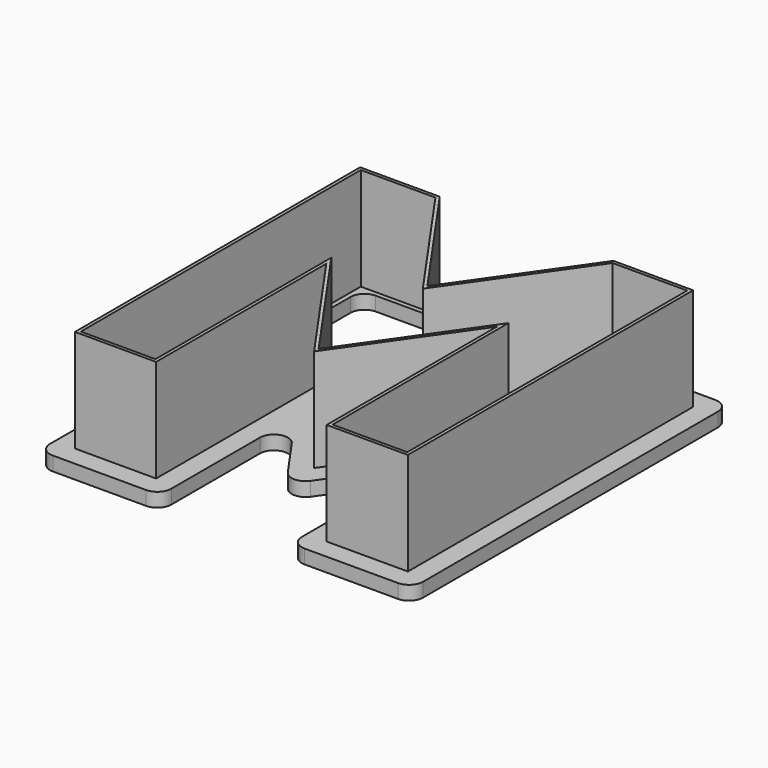
from build123d import *

# Parameters (mm, degrees)
F1_DEPTH = 3
F2_DEPTH = 25
F3_R     = 3
F4_R     = 1.4


with BuildPart() as f1:
    # F0 (on Top) → F1 (new body)
    with BuildSketch(Plane.XY):
        Polygon((-39.9790219963, 32.104852085), (-39.9790219963, -52.8951495448), (-13.9790203664, -52.8951495448), (-13.9790203664, -16.6482740563), (0, -36.6123841288), (13.9790203664, -16.6482740563), (13.9790203664, -52.8951495448), (39.9790219963, -52.8951495448), (39.9790219963, 32.104852085), (16.3761855044, 32.104852085), (0, 8.7172353989), (-16.3761855044, 32.104852085), align=None)
        Polygon((-18.2790211814, -48.5951487299), (-35.6790211814, -48.5951487299), (-35.6790211814, 27.8048512701), (-18.614624246, 27.8048512701), (0, 1.2204127569), (18.614624246, 27.8048512701), (35.6790211814, 27.8048512701), (35.6790211814, -48.5951487299), (18.2790211814, -48.5951487299), (18.2790211814, -3.0104138215), (0, -29.1155614869), (-18.2790211814, -3.0104138215), align=None, mode=Mode.SUBTRACT)
        Polygon((-35.6790211814, 27.8048512701), (-35.6790211814, -48.5951487299), (-18.2790211814, -48.5951487299), (-18.2790211814, -3.0104138215), (0, -29.1155614869), (18.2790211814, -3.0104138215), (18.2790211814, -48.5951487299), (35.6790211814, -48.5951487299), (35.6790211814, 27.8048512701), (18.614624246, 27.8048512701), (0, 1.2204127569), (-18.614624246, 27.8048512701), align=None)
        Polygon((-18.9790211814, -47.8951487299), (-34.9790211814, -47.8951487299), (-34.9790211814, 27.1048512701), (-18.9790211814, 27.1048512701), (0, 0), (18.9790211814, 27.1048512701), (34.9790211814, 27.1048512701), (34.9790211814, -47.8951487299), (18.9790211814, -47.8951487299), (18.9790211814, -0.7902974599), (0, -27.8951487299), (-18.9790211814, -0.7902974599), align=None, mode=Mode.SUBTRACT)
        Polygon((-34.9790211814, 27.1048512701), (-34.9790211814, -47.8951487299), (-18.9790211814, -47.8951487299), (-18.9790211814, -0.7902974599), (0, -27.8951487299), (18.9790211814, -0.7902974599), (18.9790211814, -47.8951487299), (34.9790211814, -47.8951487299), (34.9790211814, 27.1048512701), (18.9790211814, 27.1048512701), (0, 0), (-18.9790211814, 27.1048512701), align=None)
        Polygon((-19.9790211814, -46.8951487299), (-33.9790211814, -46.8951487299), (-33.9790211814, 26.1048512701), (-19.4995882319, 26.1048512701), (0, -1.7434467956), (19.4995882319, 26.1048512701), (33.9790211814, 26.1048512701), (33.9790211814, -46.8951487299), (19.9790211814, -46.8951487299), (19.9790211814, 2.3812973425), (0, -26.1517019343), (-19.9790211814, 2.3812973425), align=None, mode=Mode.SUBTRACT)
    extrude(amount=F1_DEPTH)

    # F0 (on Top) → F2 (join)
    with BuildSketch(Plane.XY):
        Polygon((-35.6790211814, 27.8048512701), (-35.6790211814, -48.5951487299), (-18.2790211814, -48.5951487299), (-18.2790211814, -3.0104138215), (0, -29.1155614869), (18.2790211814, -3.0104138215), (18.2790211814, -48.5951487299), (35.6790211814, -48.5951487299), (35.6790211814, 27.8048512701), (18.614624246, 27.8048512701), (0, 1.2204127569), (-18.614624246, 27.8048512701), align=None)
        Polygon((-18.9790211814, -47.8951487299), (-34.9790211814, -47.8951487299), (-34.9790211814, 27.1048512701), (-18.9790211814, 27.1048512701), (0, 0), (18.9790211814, 27.1048512701), (34.9790211814, 27.1048512701), (34.9790211814, -47.8951487299), (18.9790211814, -47.8951487299), (18.9790211814, -0.7902974599), (0, -27.8951487299), (-18.9790211814, -0.7902974599), align=None, mode=Mode.SUBTRACT)
    extrude(amount=F2_DEPTH)

    # F3
    f3_edges = [f1.edges().sort_by_distance(p)[0] for p in [
        (19.499588, 26.104851, 1.5),
        (33.979021, 26.104851, 1.5),
        (-33.979021, -46.895149, 1.5),
        (-19.979021, -46.895149, 1.5),
        (-39.979022, -52.89515, 1.5),
        (-13.97902, -52.89515, 1.5),
        (13.97902, -52.89515, 1.5),
        (39.979022, -52.89515, 1.5),
        (39.979022, 32.104852, 1.5),
        (16.376186, 32.104852, 1.5),
        (-16.376186, 32.104852, 1.5),
        (0, 8.717235, 1.5),
        (-39.979022, 32.104852, 1.5),
        (0, -36.612384, 1.5),
        (-13.97902, -16.648274, 1.5),
        (13.97902, -16.648274, 1.5),
        (0, -26.151702, 1.5),
        (-19.499588, 26.104851, 1.5),
        (-33.979021, 26.104851, 1.5),
        (33.979021, -46.895149, 1.5),
        (19.979021, -46.895149, 1.5),
    ]]
    fillet(f3_edges, radius=F3_R)

    # F4
    f4_edges = [f1.edges().sort_by_distance(p)[0] for p in [
        (-19.979021, 2.381297, 1.5),
        (19.979021, 2.381297, 1.5),
        (0, -1.743447, 1.5),
    ]]
    fillet(f4_edges, radius=F4_R)


solid = f1.part
